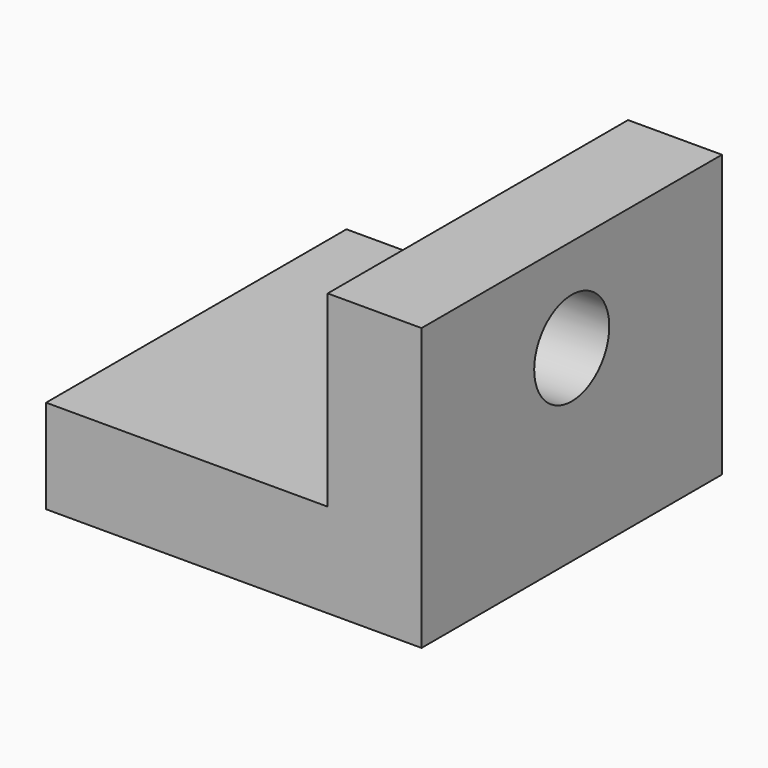
from build123d import *

# Parameters (mm, degrees)
F0_W     = 50.8
F0_H     = 50.8
F1_DEPTH = 12.7
F2_W     = 12.7
F2_H     = 50.8
F3_DEPTH = 25.4
F4_R     = 6.35
F5_DEPTH = 12.701


with BuildPart() as f1:
    # F0 (on Top) → F1 (new body)
    with BuildSketch(Plane.XY):
        with Locations((-35.357555, -12.31235)):
            Rectangle(F0_W, F0_H)
    extrude(amount=F1_DEPTH)

    # F2 (on face) → F3 (join)
    with BuildSketch(Plane.XY.offset(12.7)):
        with Locations((-16.307555, -12.31235)):
            Rectangle(F2_W, F2_H)
    extrude(amount=F3_DEPTH)

    # F4 (on face) → F5 (cut, through all)
    with BuildSketch(Plane(origin=(-22.657555, 0, 0), x_dir=(0, -1, 0), z_dir=(-1, 0, 0))):
        with Locations((12.31235, 25.4)):
            Circle(F4_R)
    extrude(amount=-F5_DEPTH, mode=Mode.SUBTRACT)


solid = f1.part
